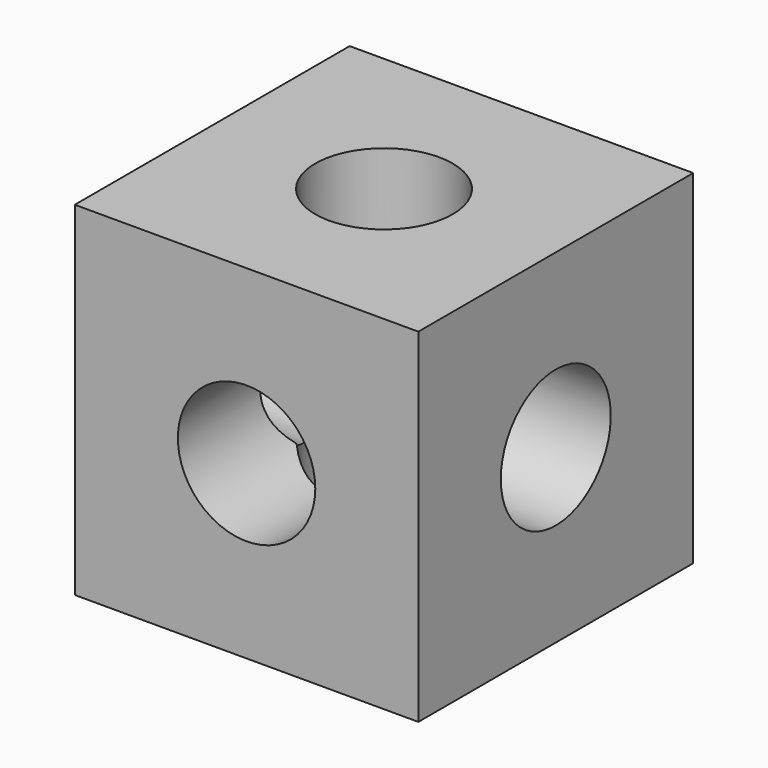
from build123d import *

# Parameters (mm, degrees)
F0_W     = 12.7
F0_H     = 12.7
F1_DEPTH = 12.7
F2_R     = 2.54
F3_DEPTH = 25.4
F4_R     = 2.54
F5_DEPTH = 25.4
F6_R     = 2.54
F7_DEPTH = 25.4


with BuildPart() as f1:
    # F0 (on Top) → F1 (new body)
    with BuildSketch(Plane.XY):
        Rectangle(F0_W, F0_H)
    extrude(amount=F1_DEPTH)

    # F2 (on face) → F3 (cut)
    with BuildSketch(Plane(origin=(-6.35, 0, 0), x_dir=(0, -1, 0), z_dir=(-1, 0, 0))):
        with Locations((0, 6.35)):
            Circle(F2_R)
    extrude(amount=-F3_DEPTH, mode=Mode.SUBTRACT)

    # F4 (on face) → F5 (cut)
    with BuildSketch(Plane.XZ.offset(6.35)):
        with Locations((0, 6.35)):
            Circle(F4_R)
    extrude(amount=-F5_DEPTH, mode=Mode.SUBTRACT)

    # F6 (on face) → F7 (cut)
    with BuildSketch(Plane.XY.offset(12.7)):
        Circle(F6_R)
    extrude(amount=-F7_DEPTH, mode=Mode.SUBTRACT)


solid = f1.part
